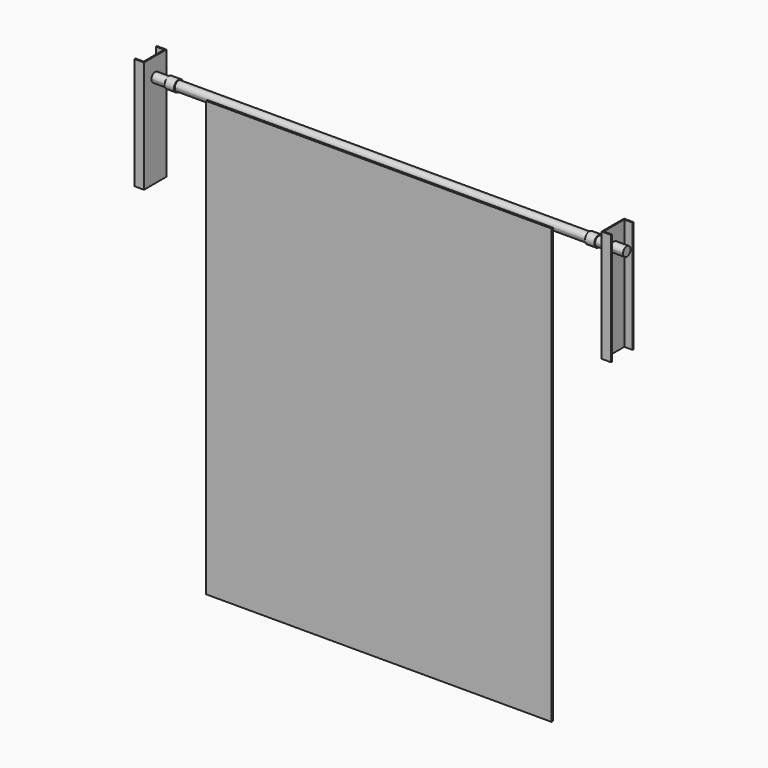
from build123d import *

# Parameters (mm, degrees)
F1_DEPTH = 660.4
F0_W     = 5.08
F0_H     = 1181.1
F2_DEPTH = 469.9
F5_DEPTH = 304.8
F7_R     = 15.24
F8_DEPTH = 25.4


with BuildPart() as f1:
    # F0 (on Right) → F1 (new body, symmetric)
    with BuildSketch(Plane.YZ):
        with BuildLine():
            ThreePointArc((-12.692487, 0), (0.008975, -12.697076), (12.707513, 0.002924))
            ThreePointArc((12.707513, 0.002924), (0.00605, 12.702924), (-12.692487, 0))
        make_face()
    extrude(amount=F1_DEPTH, both=True)

    # F4 (on face) → F5 (join)
    with BuildSketch(Plane(origin=(0, 0, 50.8), x_dir=(1, 0, 0), z_dir=(0, 0, -1))):
        Polygon((-622.212201, -38.123938), (-622.212201, -0.023938), (-622.212201, 38.076062), (-647.612201, 38.076062), (-647.612201, 34.901062), (-625.387201, 34.901062), (-625.387201, -34.948938), (-647.612201, -34.948938), (-647.612201, -38.123938), align=None)
        Polygon((625.562799, 34.901062), (647.787799, 34.901062), (647.787799, 38.076062), (622.387799, 38.076062), (622.387799, -38.123938), (647.787799, -38.123938), (647.787799, -34.948938), (625.562799, -34.948938), align=None)
    extrude(amount=F5_DEPTH)


with BuildPart() as f2:
    # F0 (on Right) → F2 (new body, symmetric)
    with BuildSketch(Plane.YZ):
        with Locations((-15.232487, -590.55)):
            Rectangle(F0_W, F0_H)
    extrude(amount=F2_DEPTH, both=True)


with BuildPart() as f8:
    # F7 (on face) → F8 (new body)
    with BuildSketch(Plane.YZ.offset(558.8)):
        Circle(F7_R)
    extrude(amount=F8_DEPTH)


with BuildPart() as f9_1:
    # F9: instance of F8
    add(f8.part.mirror(Plane.YZ))


solid = Compound([f1.part, f2.part, f8.part, f9_1.part])
